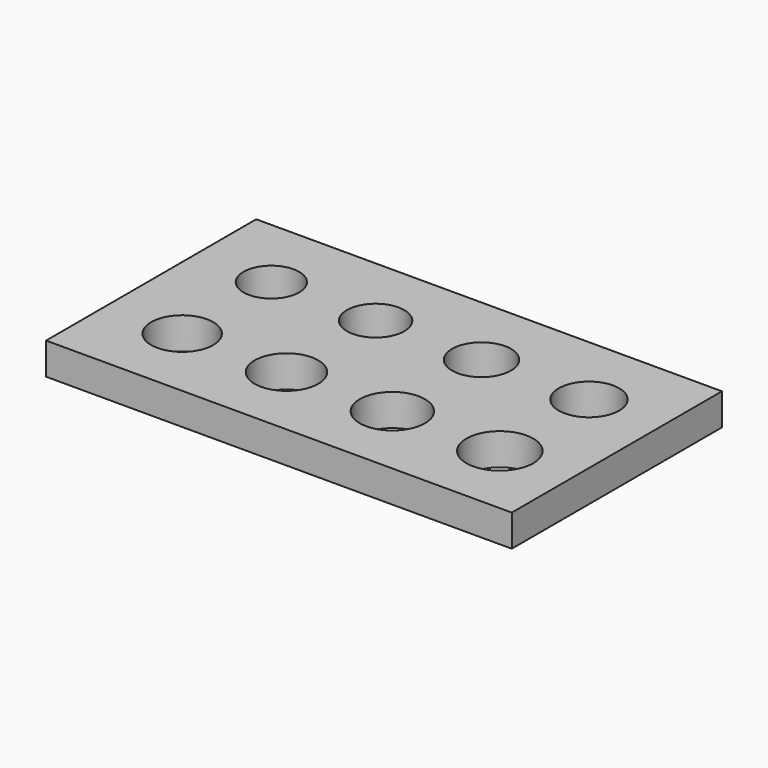
from build123d import *

# Parameters (mm, degrees)
F0_W     = 29.25
F0_H     = 16.5
F0_R     = 1.95
F0_R_2   = 2
F0_R_3   = 2.05
F0_R_4   = 2.1
F0_R_5   = 1.75
F0_R_6   = 1.8
F0_R_7   = 1.85
F0_R_8   = 1.9
F1_DEPTH = 2


with BuildPart() as f1:
    # F0 (on Top) → F1 (new body)
    with BuildSketch(Plane.XY):
        with Locations((0, 8.25)):
            Rectangle(F0_W, F0_H)
        with Locations((-9.875, 4.75)):
            Circle(F0_R, mode=Mode.SUBTRACT)
        with Locations((-3.325, 4.75)):
            Circle(F0_R_2, mode=Mode.SUBTRACT)
        with Locations((3.325, 4.75)):
            Circle(F0_R_3, mode=Mode.SUBTRACT)
        with Locations((10.075, 4.75)):
            Circle(F0_R_4, mode=Mode.SUBTRACT)
        with Locations((-9.875, 11.75)):
            Circle(F0_R_5, mode=Mode.SUBTRACT)
        with Locations((-3.325, 11.75)):
            Circle(F0_R_6, mode=Mode.SUBTRACT)
        with Locations((3.325, 11.75)):
            Circle(F0_R_7, mode=Mode.SUBTRACT)
        with Locations((10.075, 11.75)):
            Circle(F0_R_8, mode=Mode.SUBTRACT)
    extrude(amount=F1_DEPTH)


solid = f1.part
